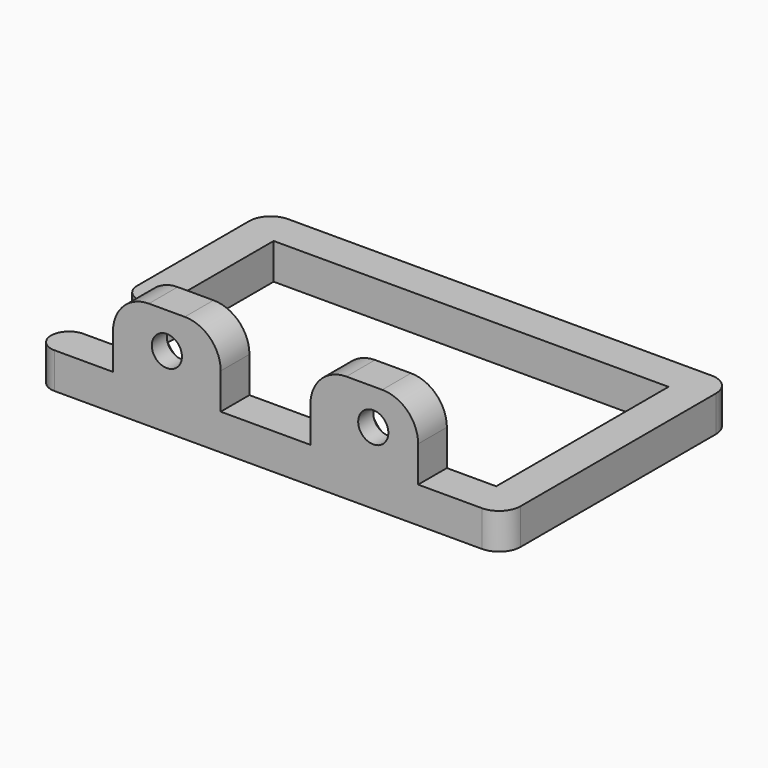
from build123d import *

# Parameters (mm, degrees)
F1_DEPTH       = 5
F2_W           = 15
F2_H           = 5
F3_DEPTH       = 10
F4_R           = 5
F6_D           = 4.2
F6_CSINK_D     = 8.96
F6_CSINK_ANGLE = 90


with BuildPart() as f1:
    # F0 (on Top) → F1 (new body)
    with BuildSketch(Plane.XY):
        with BuildLine():
            Line((29.5, 20), (-29.5, 20))
            ThreePointArc((-29.5, 20), (-31.62132, 19.12132), (-32.5, 17))
            Line((-32.5, 17), (-32.5, -2.5))
            ThreePointArc((-32.5, -2.5), (-31.767767, -4.267767), (-30, -5))
            ThreePointArc((-30, -5), (-28.232233, -4.267767), (-27.5, -2.5))
            Line((-27.5, -2.5), (-27.5, 15))
            Line((-27.5, 15), (27.5, 15))
            Line((27.5, 15), (27.5, -15))
            Line((27.5, -15), (-27.5, -15))
            Line((-27.5, -15), (-30, -15))
            ThreePointArc((-30, -15), (-31.767767, -15.732233), (-32.5, -17.5))
            ThreePointArc((-32.5, -17.5), (-31.767767, -19.267767), (-30, -20))
            Line((-30, -20), (29.5, -20))
            ThreePointArc((29.5, -20), (31.62132, -19.12132), (32.5, -17))
            Line((32.5, -17), (32.5, 17))
            ThreePointArc((32.5, 17), (31.62132, 19.12132), (29.5, 20))
        make_face()
    extrude(amount=F1_DEPTH)

    # F2 (on face) → F3 (join)
    with BuildSketch(Plane.XY.offset(5)):
        with Locations((-14.375, -17.5)):
            Rectangle(F2_W, F2_H)
        with Locations((13.125, -17.5)):
            Rectangle(F2_W, F2_H)
    extrude(amount=F3_DEPTH)

    # F4
    f4_edges = [f1.edges().sort_by_distance(p)[0] for p in [
        (-21.875, -17.5, 15),
        (-6.875, -17.5, 15),
        (5.625, -17.5, 15),
        (20.625, -17.5, 15),
    ]]
    fillet(f4_edges, radius=F4_R)

    # F6 (through all)
    with Locations(Plane(origin=(0, -15, 0), x_dir=(-1, 0, 0), z_dir=(0, 1, 0))):
        with Locations((14.375, 10), (-14.375, 10)):
            CounterSinkHole(F6_D / 2, F6_CSINK_D / 2, counter_sink_angle=F6_CSINK_ANGLE)


solid = f1.part
